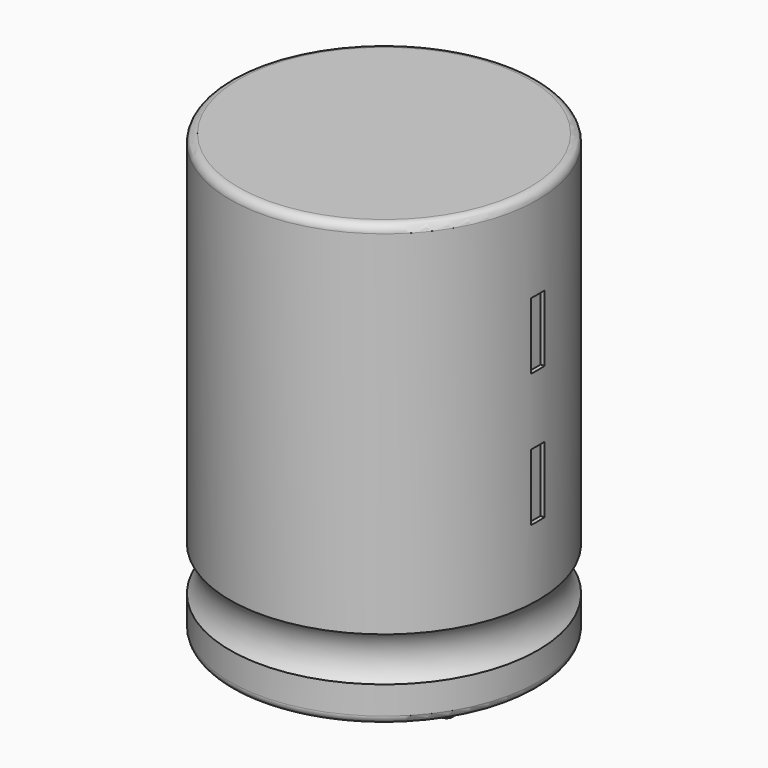
from build123d import *

# Parameters (mm, degrees)
CYLINDER002_R     = 0.4
CYLINDER002_DEPTH = 3
CYLINDER001_R     = 0.4
CYLINDER001_DEPTH = 3
BOX001_W          = 1
BOX001_H          = 1
BOX001_DEPTH      = 4
BOX_W             = 1
BOX_H             = 1
BOX_DEPTH         = 4
TORUS_R           = 2
CYLINDER_R        = 9.25
CYLINDER_DEPTH    = 26.5
FILLET_R          = 0.5


with BuildPart() as pin2:
    # Cylinder002 → Cylinder002 (new body)
    with BuildSketch(Plane(origin=(3.75, 0, -3), x_dir=(1, 0, 0), z_dir=(0, 0, 1))):
        Circle(CYLINDER002_R)
    extrude(amount=CYLINDER002_DEPTH)


with BuildPart() as pin1:
    # Cylinder001 → Cylinder001 (new body)
    with BuildSketch(Plane(origin=(-3.75, 0, -3), x_dir=(1, 0, 0), z_dir=(0, 0, 1))):
        Circle(CYLINDER001_R)
    extrude(amount=CYLINDER001_DEPTH)


with BuildPart() as box001:
    # Box001 → Box001 (new body)
    with BuildSketch(Plane(origin=(9, -0.5, 17), x_dir=(1, 0, 0), z_dir=(0, 0, 1))):
        with Locations((0.5, 0.5)):
            Rectangle(BOX001_W, BOX001_H)
    extrude(amount=BOX001_DEPTH)


with BuildPart() as box:
    # Box → Box (new body)
    with BuildSketch(Plane(origin=(9, -0.5, 9), x_dir=(1, 0, 0), z_dir=(0, 0, 1))):
        with Locations((0.5, 0.5)):
            Rectangle(BOX_W, BOX_H)
    extrude(amount=BOX_DEPTH)


with BuildPart() as ring:
    # Torus → Torus (revolve)
    with BuildSketch(Plane(origin=(0, 0, 3.5), x_dir=(1, 0, 0), z_dir=(0, -1, 0))):
        with Locations((10.75, 0)):
            Circle(TORUS_R)
    revolve(axis=Axis((0, 0, 3.5), (0, 0, 1)))


with BuildPart() as obj1:
    # Cylinder → Cylinder (new body)
    with BuildSketch(Plane.XY):
        Circle(CYLINDER_R)
    extrude(amount=CYLINDER_DEPTH)

    # Fillet
    fillet_edges = [obj1.edges().sort_by_distance(p)[0] for p in [
        (-9.25, 0, 26.5),
        (-9.25, 0, 0),
    ]]
    fillet(fillet_edges, radius=FILLET_R)

    # Cut: cut Ring
    add(ring.part, mode=Mode.SUBTRACT)

    # Cut001: cut Box
    add(box.part, mode=Mode.SUBTRACT)

    # Cut002: cut Box001
    add(box001.part, mode=Mode.SUBTRACT)

    # Fusion: union Pin1+
    add(pin1.part)

    # Fusion001: union Pin2-
    add(pin2.part)


solid = obj1.part
